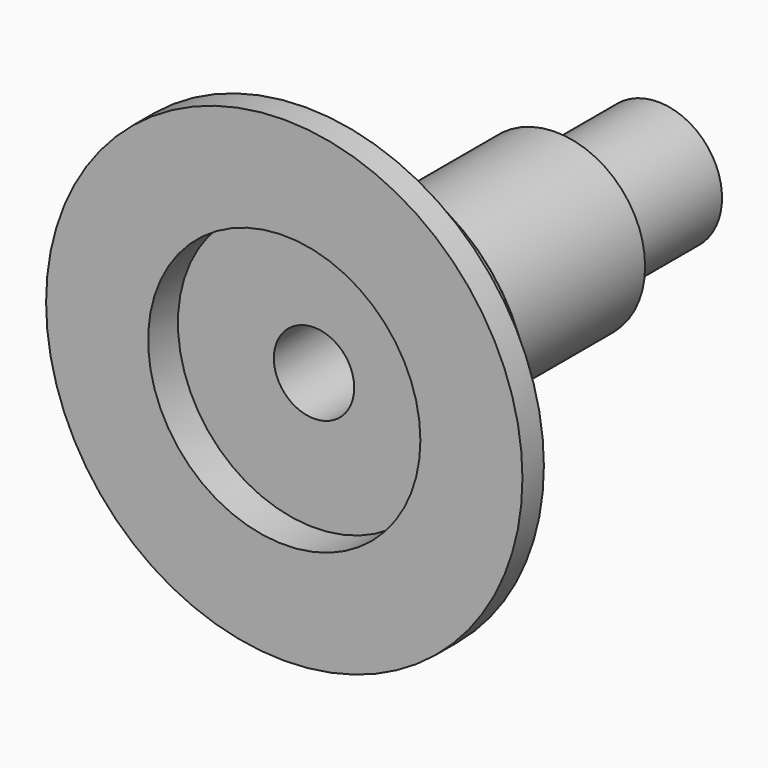
from build123d import *

# Parameters (mm, degrees)
F0_R      = 60
F1_DEPTH  = 160
F2_R      = 115
F3_DEPTH  = 50
F4_R      = 160
F5_DEPTH  = 18
F6_SIZE   = 5
F7_R      = 42.875
F8_DEPTH  = 86
F9_R      = 27
F10_DEPTH = 430
F11_R     = 91.436725
F12_DEPTH = 25


with BuildPart() as f1:
    # F0 (on Front) → F1 (new body)
    with BuildSketch(Plane.XZ):
        Circle(F0_R)
    extrude(amount=F1_DEPTH)

    # F2 (on face) → F3 (join)
    with BuildSketch(Plane.XZ.offset(160)):
        Circle(F2_R)
    extrude(amount=F3_DEPTH)

    # F4 (on face) → F5 (join)
    with BuildSketch(Plane.XZ.offset(210)):
        Circle(F4_R)
    extrude(amount=F5_DEPTH)

    # F6
    f6_edges = [f1.edges().sort_by_distance(p)[0] for p in [
        (-115, -160, 0),
    ]]
    chamfer(f6_edges, length=F6_SIZE)

    # F7 (on face) → F8 (join)
    with BuildSketch(Plane(origin=(0, 0, 0), x_dir=(-1, 0, 0), z_dir=(0, 1, 0))):
        Circle(F7_R)
    extrude(amount=F8_DEPTH)

    # F9 (on face) → F10 (cut)
    with BuildSketch(Plane(origin=(0, 86, 0), x_dir=(-1, 0, 0), z_dir=(0, 1, 0))):
        Circle(F9_R)
    extrude(amount=-F10_DEPTH, mode=Mode.SUBTRACT)

    # F11 (on face) → F12 (cut)
    with BuildSketch(Plane.XZ.offset(228)):
        Circle(F11_R)
    extrude(amount=-F12_DEPTH, mode=Mode.SUBTRACT)


solid = f1.part
